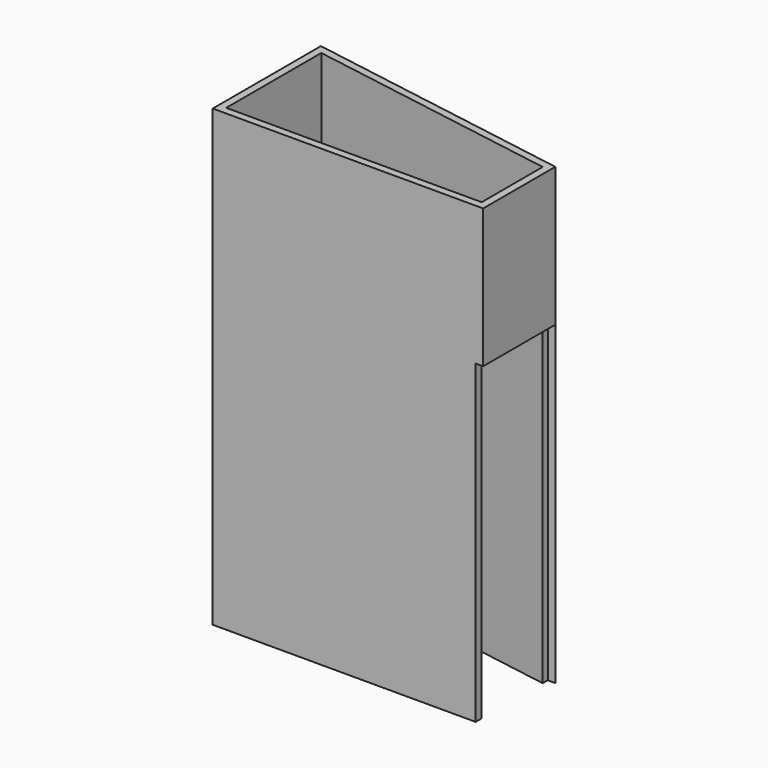
from build123d import *

# Parameters (mm, degrees)
F2_DEPTH = 25.4
F3_DEPTH = 3048
F5_DEPTH = 3302
F6_W     = 609.6
F6_H     = 2133.6
F7_DEPTH = 50.8


with BuildPart() as f2:
    # F1 (on Top) → F2 (new body)
    with BuildSketch(Plane.XY):
        Polygon((-931.248452, 783.924121), (-931.248452, -130.475879), (897.551548, -130.475879), (897.551548, 479.124121), align=None)
    extrude(amount=F2_DEPTH)

    # F2_face (on face) → F3 (join)
    with BuildSketch(Plane(origin=(-77.808452, 255.604121, 25.4), x_dir=(1, 0, 0), z_dir=(0, 0, 1))):
        Polygon((975.36, 223.52), (-853.44, 528.32), (-853.44, -386.08), (975.36, -386.08), align=None)
    extrude(amount=F3_DEPTH)

    # F4 (on face) → F5 (cut)
    with BuildSketch(Plane.XY.offset(3073.4)):
        Polygon((846.751548, -79.675879), (846.751548, 436.090065), (-880.448452, 723.956732), (-880.448452, -79.675879), align=None)
    extrude(amount=-F5_DEPTH, mode=Mode.SUBTRACT)

    # F6 (on face) → F7 (cut)
    with BuildSketch(Plane.YZ.offset(897.551548)):
        with Locations((174.324121, 1066.8)):
            Rectangle(F6_W, F6_H)
    extrude(amount=-F7_DEPTH, mode=Mode.SUBTRACT)


solid = f2.part
